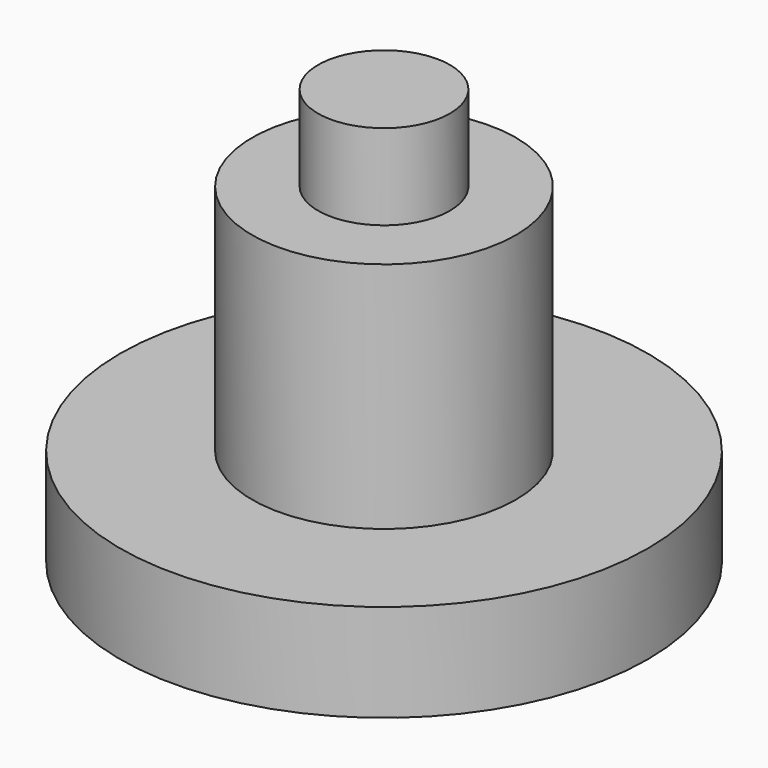
from build123d import *

# Parameters (mm, degrees)
F0_R     = 12.71
F1_DEPTH = 4.7
F2_R     = 6.355
F3_DEPTH = 11.22
F4_R     = 3.175
F5_DEPTH = 4.12
F6_R     = 2.375
F7_DEPTH = 6.04


with BuildPart() as f1:
    # F0 (on Top) → F1 (new body)
    with BuildSketch(Plane.XY):
        Circle(F0_R)
    extrude(amount=F1_DEPTH)

    # F2 (on face) → F3 (join)
    with BuildSketch(Plane.XY.offset(4.7)):
        Circle(F2_R)
    extrude(amount=F3_DEPTH)

    # F4 (on face) → F5 (join)
    with BuildSketch(Plane.XY.offset(15.92)):
        Circle(F4_R)
    extrude(amount=F5_DEPTH)

    # F6 (on face) → F7 (cut)
    with BuildSketch(Plane(origin=(0, 0, 0), x_dir=(1, 0, 0), z_dir=(0, 0, -1))):
        Circle(F6_R)
    extrude(amount=-F7_DEPTH, mode=Mode.SUBTRACT)


solid = f1.part
